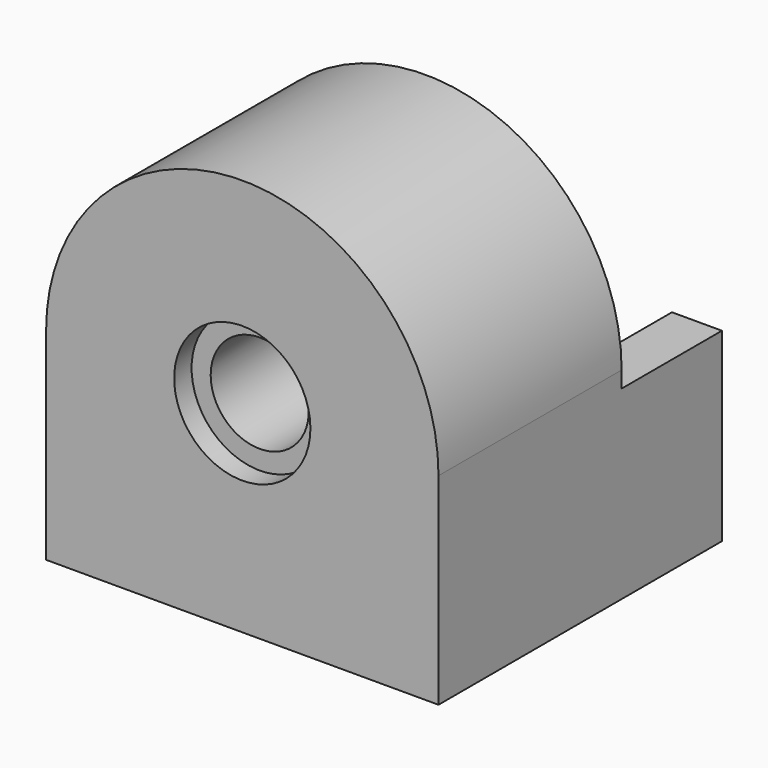
from build123d import *

# Parameters (mm, degrees)
F1_DEPTH  = 65
F2_R      = 12.5
F2_R_2    = 9
F3_DEPTH  = 4
F4_W      = 23
F4_H      = 40
F4_H_2    = 3
F5_DEPTH  = 72
F7_DEPTH  = 23
F8_R      = 12
F8_R_2    = 9
F9_DEPTH  = 10
F11_DEPTH = 6


with BuildPart() as f1:
    # F0 (on Front) → F1 (new body)
    with BuildSketch(Plane.XZ):
        with BuildLine():
            Line((36, 0), (9, 0))
            ThreePointArc((9, 0), (0, -9), (-9, 0))
            Line((-9, 0), (-36, 0))
            ThreePointArc((-36, 0), (0, -36), (36, 0))
        make_face()
        with BuildLine():
            ThreePointArc((-9, 0), (0, 9), (9, 0))
            Line((9, 0), (36, 0))
            ThreePointArc((36, 0), (0, 36), (-36, 0))
            Line((-36, 0), (-9, 0))
        make_face()
        with BuildLine():
            Line((36, -37), (36, 0))
            ThreePointArc((36, 0), (0, -36), (-36, 0))
            Line((-36, 0), (-36, -37))
            Line((-36, -37), (36, -37))
        make_face()
    extrude(amount=F1_DEPTH)

    # F2 (on face) → F3 (cut)
    with BuildSketch(Plane.XZ.offset(65)):
        Circle(F2_R)
        Circle(F2_R_2, mode=Mode.SUBTRACT)
    extrude(amount=-F3_DEPTH, mode=Mode.SUBTRACT)

    # F4 (on face) → F5 (cut)
    with BuildSketch(Plane.YZ.offset(36)):
        with Locations((-11.5, 20)):
            Rectangle(F4_W, F4_H)
        with Locations((-11.5, -1.5)):
            Rectangle(F4_W, F4_H_2)
    extrude(amount=-F5_DEPTH, mode=Mode.SUBTRACT)

    # F6 (on face) → F7 (cut)
    with BuildSketch(Plane(origin=(0, 0, 0), x_dir=(-1, 0, 0), z_dir=(0, 1, 0))):
        with BuildLine():
            ThreePointArc((26.83281573, -3), (26.9581715321, -1.5023274094), (27, 0))
            ThreePointArc((27, 0), (-1.5023274094, 26.9581715321), (-26.83281573, -3))
            Line((-26.83281573, -3), (-8.4852813742, -3))
            ThreePointArc((-8.4852813742, -3), (0, -9), (8.4852813742, -3))
            Line((8.4852813742, -3), (26.83281573, -3))
        make_face()
        with BuildLine():
            Line((-8.4852813742, -3), (-26.83281573, -3))
            ThreePointArc((-26.83281573, -3), (0, -27), (26.83281573, -3))
            Line((26.83281573, -3), (8.4852813742, -3))
            ThreePointArc((8.4852813742, -3), (0, -9), (-8.4852813742, -3))
        make_face()
    extrude(amount=-F7_DEPTH, mode=Mode.SUBTRACT)

    # F8 (on face) → F9 (cut)
    with BuildSketch(Plane(origin=(0, -23, 0), x_dir=(-1, 0, 0), z_dir=(0, 1, 0))):
        Circle(F8_R)
        Circle(F8_R_2, mode=Mode.SUBTRACT)
    extrude(amount=-F9_DEPTH, mode=Mode.SUBTRACT)

    # F10 (on face) → F11 (cut)
    with BuildSketch(Plane(origin=(0, -23, 0), x_dir=(-1, 0, 0), z_dir=(0, 1, 0))):
        with BuildLine():
            ThreePointArc((22.1415898255, 0), (25.2111536743, 1.4352821251), (26.0778724611, 4.7111111111))
            ThreePointArc((26.0778724611, 4.7111111111), (0, 26.5), (-26.0778724611, 4.7111111111))
            ThreePointArc((-26.0778724611, 4.7111111111), (-25.2111536743, 1.4352821251), (-22.1415898255, 0))
            Line((-22.1415898255, 0), (-12, 0))
            ThreePointArc((-12, 0), (0, 12), (12, 0))
            Line((12, 0), (22.1415898255, 0))
        make_face()
    extrude(amount=-F11_DEPTH, mode=Mode.SUBTRACT)


solid = f1.part
